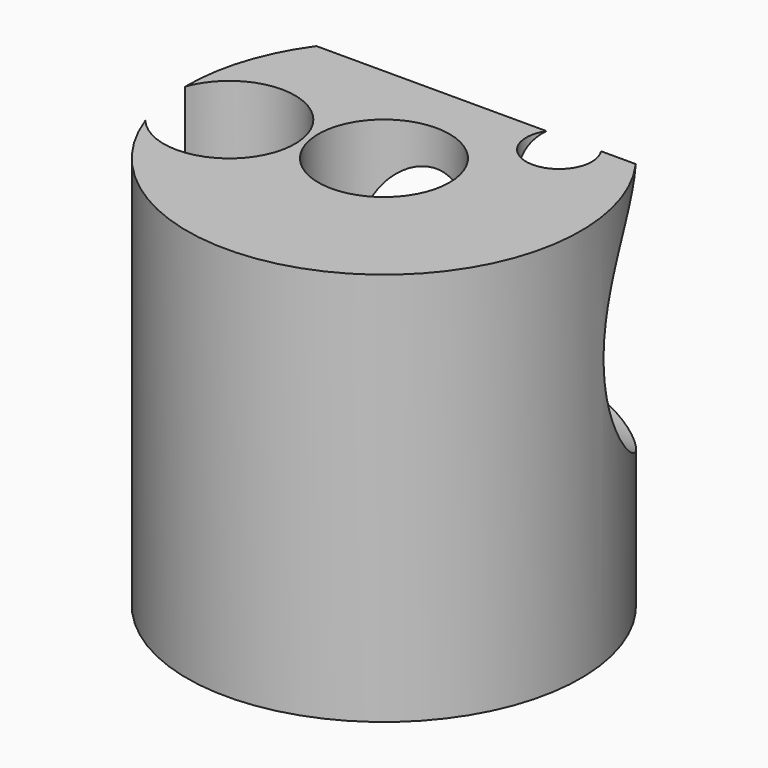
from build123d import *

# Parameters (mm, degrees)
F0_R      = 38.1
F1_DEPTH  = 76.2
F2_R      = 12.7
F3_DEPTH  = 255.778
F4_R      = 6.35
F5_DEPTH  = 105.156
F7_R      = 12.7
F8_DEPTH  = 112.522
F10_DEPTH = 91.694


with BuildPart() as f1:
    # F0 (on Top) → F1 (new body)
    with BuildSketch(Plane.XY):
        Circle(F0_R)
    extrude(amount=F1_DEPTH)

    # F2 (on face) → F3 (cut)
    with BuildSketch(Plane.XY.offset(76.2)):
        Circle(F2_R)
    extrude(amount=-F3_DEPTH, mode=Mode.SUBTRACT)

    # F4 (on face) → F5 (cut)
    with BuildSketch(Plane.XY.offset(76.2)):
        with Locations((18.897600472, 18.7452007085)):
            Circle(F4_R)
    extrude(amount=-F5_DEPTH, mode=Mode.SUBTRACT)

    # F7 (on face) → F8 (cut)
    with BuildSketch(Plane.XY.offset(76.2)):
        with Locations((-26.1348858476, -4.7210869379)):
            Circle(F7_R)
    extrude(amount=-F8_DEPTH, mode=Mode.SUBTRACT)

    # F9 (on Right) → F10 (cut, symmetric)
    with BuildSketch(Plane.YZ):
        with BuildLine():
            ThreePointArc((53.601659511, 35.343534931), (57.8103975555, 43.0686388402), (59.2664996787, 51.7444945872))
            ThreePointArc((59.2664996787, 51.7444945872), (58.1456298442, 59.3810526604), (54.8775729197, 66.3734179491))
            ThreePointArc((54.8775729197, 66.3734179491), (42.9419800159, 51.3230223587), (53.601659511, 35.343534931))
        make_face()
        with BuildLine():
            ThreePointArc((54.8775729197, 66.3734179491), (58.1456298442, 59.3810526604), (59.2664996787, 51.7444945872))
            ThreePointArc((59.2664996787, 51.7444945872), (57.8103975555, 43.0686388402), (53.601659511, 35.343534931))
            ThreePointArc((53.601659511, 35.343534931), (68.575369435, 37.2686066813), (75.5599205639, 50.6526993162))
            ThreePointArc((75.5599205639, 50.6526993162), (69.1173648929, 63.6421228832), (54.8775729197, 66.3734179491))
        make_face()
        with BuildLine():
            ThreePointArc((53.601659511, 35.343534931), (42.9419800159, 51.3230223587), (54.8775729197, 66.3734179491))
            ThreePointArc((54.8775729197, 66.3734179491), (6.1397071015, 52.8362898582), (53.601659511, 35.343534931))
        make_face()
    extrude(amount=F10_DEPTH, both=True, mode=Mode.SUBTRACT)


solid = f1.part
